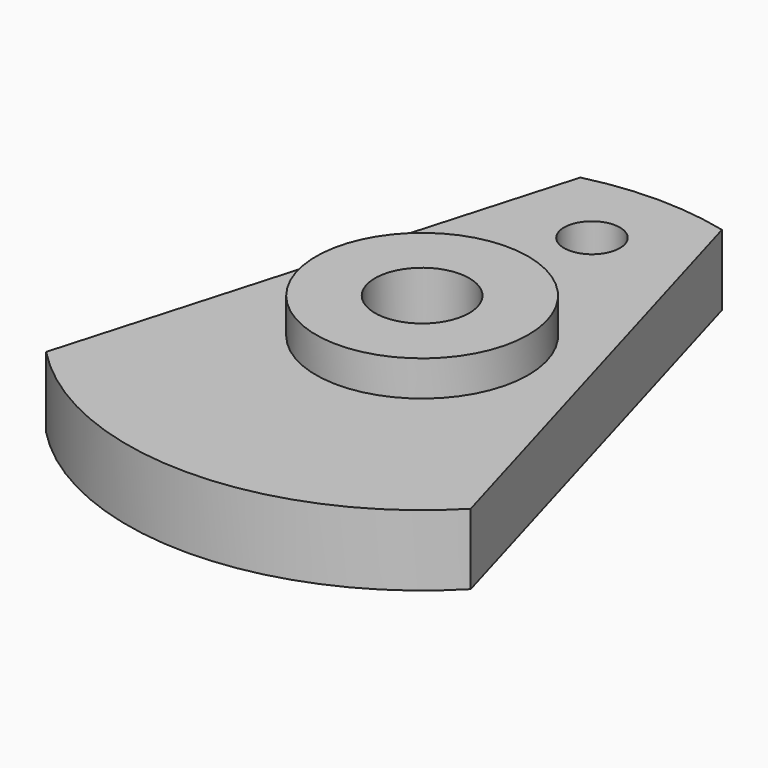
from build123d import *

# Parameters (mm, degrees)
F1_DEPTH = 3
F2_R     = 1.185
F3_DEPTH = 3.001
F4_R     = 4.5
F5_DEPTH = 1.5
F6_R     = 2
F7_DEPTH = 4.501


with BuildPart() as f1:
    # F0 (on Top) → F1 (new body)
    with BuildSketch(Plane.XY):
        with BuildLine():
            Line((-3, 12.134661), (-9, -8.674676))
            ThreePointArc((-9, -8.674676), (0, -12.5), (9, -8.674676))
            Line((9, -8.674676), (3, 12.134661))
            ThreePointArc((3, 12.134661), (0, 12.5), (-3, 12.134661))
        make_face()
    extrude(amount=F1_DEPTH)

    # F2 (on face) → F3 (cut, through all)
    with BuildSketch(Plane.XY.offset(3)):
        with Locations((0, 9)):
            Circle(F2_R)
    extrude(amount=-F3_DEPTH, mode=Mode.SUBTRACT)

    # F4 (on face) → F5 (join)
    with BuildSketch(Plane.XY.offset(3)):
        Circle(F4_R)
    extrude(amount=F5_DEPTH)

    # F6 (on face) → F7 (cut, through all)
    with BuildSketch(Plane.XY.offset(4.5)):
        Circle(F6_R)
    extrude(amount=-F7_DEPTH, mode=Mode.SUBTRACT)


solid = f1.part
